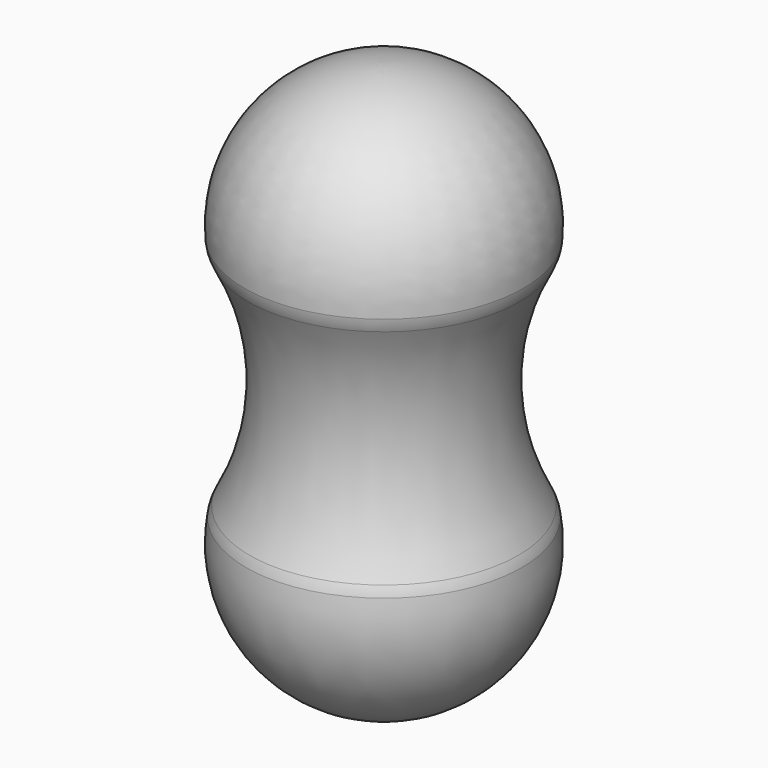
from build123d import *

# Parameters (mm, degrees)
F2_R = 7
F3_R = 5


with BuildPart() as f1:
    # F0 (on Front) → F1 (revolve)
    with BuildSketch(Plane.XZ):
        with BuildLine():
            ThreePointArc((-7.92857, 1.066667), (-5.266245, 6.022181), (0, 8))
            Line((0, 8), (0, 10))
            ThreePointArc((0, 10), (-5.656854, 8.246211), (-9.329523, 3.6))
            ThreePointArc((-9.329523, 3.6), (-24.339419, 16.1583), (-27.458768, 35.478691))
            ThreePointArc((-27.458768, 35.478691), (-21.010367, 61.193016), (-27.818209, 86.814524))
            ThreePointArc((-27.818209, 86.814524), (-20.894896, 108.638759), (0, 118))
            Line((0, 118), (0, 120))
            ThreePointArc((0, 120), (-22.524802, 109.814977), (-29.755228, 86.175553))
            ThreePointArc((-29.755228, 86.175553), (-23.010681, 61.227622), (-29.357496, 36.175553))
            ThreePointArc((-29.357496, 36.175553), (-25.607053, 14.370577), (-7.92857, 1.066667))
        make_face()
    revolve(axis=Axis((0, 0, 75.226493), (0, 0, 1)))

    # F2
    f2_edges = [f1.edges().sort_by_distance(p)[0] for p in [
        (29.755228, 0, 86.175553),
        (29.357496, 0, 36.175553),
        (-23.010681, 0, 61.227622),
    ]]
    fillet(f2_edges, radius=F2_R)

    # F3
    f3_edges = [f1.edges().sort_by_distance(p)[0] for p in [
        (7.92857, 0, 1.066667),
    ]]
    fillet(f3_edges, radius=F3_R)


solid = f1.part
